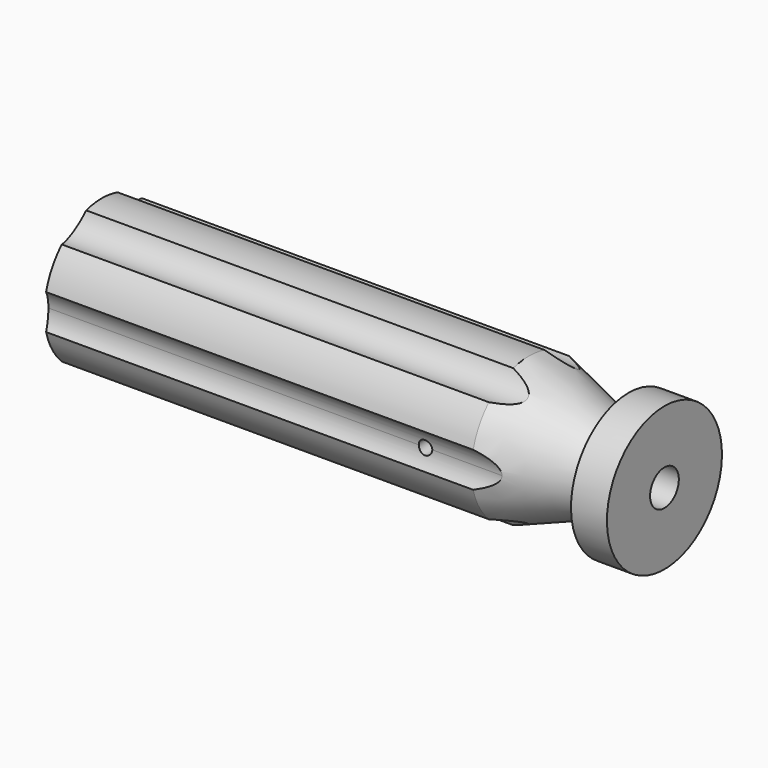
from build123d import *

# Parameters (mm, degrees)
F3_START = -7.62
F3_DEPTH = 93.981
F4_R     = 1.1938
F5_DEPTH = 12.7


with BuildPart() as f1:
    # F0 (on Front) → F1 (revolve)
    with BuildSketch(Plane.XZ):
        with BuildLine():
            Line((-101.6, 0), (-40.64, 0))
            Line((-40.64, 0), (-40.64, 3.175))
            Line((-40.64, 3.175), (0, 3.175))
            Line((0, 3.175), (0, 12.7))
            Line((0, 12.7), (-6.35, 12.7))
            Line((-6.35, 12.7), (-6.35, 9.9233625935))
            ThreePointArc((-6.35, 9.9233625935), (-7.4331158517, 7.842716401), (-9.758731164, 7.5365433367))
            Line((-9.758731164, 7.5365433367), (-23.9452117528, 12.7))
            Line((-23.9452117528, 12.7), (-99.4210244843, 12.7))
            ThreePointArc((-99.4210244843, 12.7), (-101.0513051228, 6.4427853895), (-101.6, 0))
        make_face()
    revolve(axis=Axis((-71.12, 0, 0), (1, 0, 0)))

    # F2 (on Right) → F3 (cut)
    with BuildSketch(Plane.YZ.offset(F3_START)):
        with BuildLine():
            ThreePointArc((-3.175, 13.8581385114), (-3.2583413998, 14.751147695), (-3.5054871123, 15.6133136811))
            ThreePointArc((-3.5054871123, 15.6133136811), (-8.001, 13.8581385114), (-11.768782729, 10.8424977325))
            ThreePointArc((-11.768782729, 10.8424977325), (-6.4030393387, 9.3043710903), (-3.175, 13.8581385114))
        make_face()
        with BuildLine():
            ThreePointArc((3.5054871123, 15.6133136811), (5.588, 9.6786999127), (11.768782729, 10.8424977325))
            ThreePointArc((11.768782729, 10.8424977325), (8.001, 13.8581385114), (3.5054871123, 15.6133136811))
        make_face()
        with BuildLine():
            ThreePointArc((15.2742698413, -4.7708159487), (15.8190213035, -2.413), (16.002, 0))
            ThreePointArc((16.002, 0), (15.8190213035, 2.413), (15.2742698413, 4.7708159487))
            ThreePointArc((15.2742698413, 4.7708159487), (11.176, 0), (15.2742698413, -4.7708159487))
        make_face()
        with BuildLine():
            ThreePointArc((3.5054871123, -15.6133136811), (8.001, -13.8581385114), (11.768782729, -10.8424977325))
            ThreePointArc((11.768782729, -10.8424977325), (5.588, -9.6786999127), (3.5054871123, -15.6133136811))
        make_face()
        with BuildLine():
            ThreePointArc((-11.768782729, -10.8424977325), (-8.001, -13.8581385114), (-3.5054871123, -15.6133136811))
            ThreePointArc((-3.5054871123, -15.6133136811), (-3.2583413998, -14.751147695), (-3.175, -13.8581385114))
            ThreePointArc((-3.175, -13.8581385114), (-6.4030393387, -9.3043710903), (-11.768782729, -10.8424977325))
        make_face()
        with BuildLine():
            ThreePointArc((-11.176, 0), (-12.3412417626, 3.1446979389), (-15.2742698413, 4.7708159487))
            ThreePointArc((-15.2742698413, 4.7708159487), (-16.002, 0), (-15.2742698413, -4.7708159487))
            ThreePointArc((-15.2742698413, -4.7708159487), (-12.3412417626, -3.1446979389), (-11.176, 0))
        make_face()
    extrude(amount=-F3_DEPTH, mode=Mode.SUBTRACT)

    # F4 (on Front) → F5 (cut, symmetric)
    with BuildSketch(Plane.XZ):
        with Locations((-33.274, 0)):
            Circle(F4_R)
    extrude(amount=F5_DEPTH, both=True, mode=Mode.SUBTRACT)


solid = f1.part
